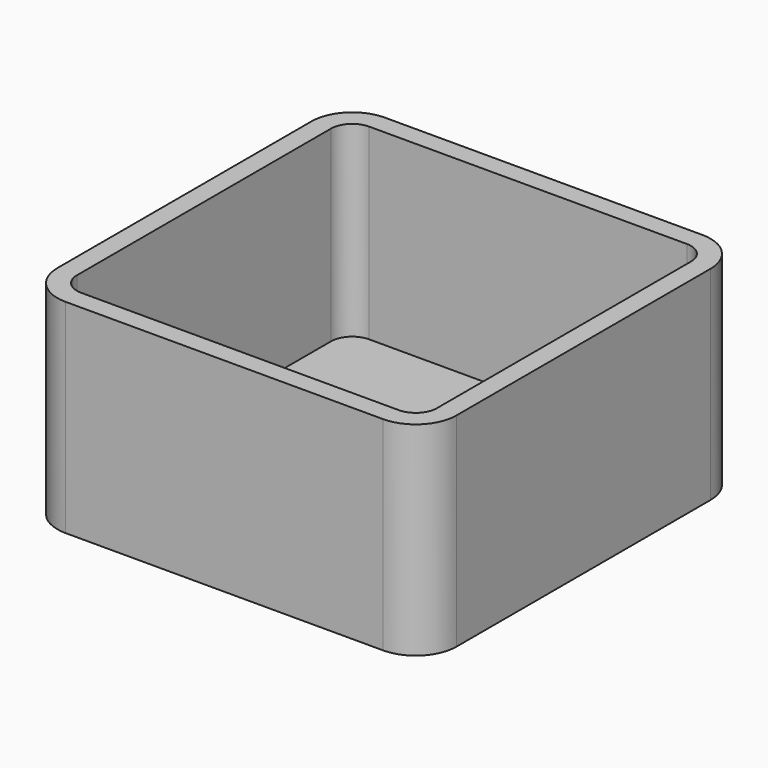
from build123d import *

# Parameters (mm, degrees)
F1_DEPTH = 25
F2_DEPTH = 2


with BuildPart() as f1:
    # F0 (on Top) → F1 (new body)
    with BuildSketch(Plane.XY):
        with BuildLine():
            ThreePointArc((-19.5, 24.5), (-23.035534, 23.035534), (-24.5, 19.5))
            Line((-24.5, 19.5), (-24.5, -19.5))
            ThreePointArc((-24.5, -19.5), (-23.035534, -23.035534), (-19.5, -24.5))
            Line((-19.5, -24.5), (19.5, -24.5))
            ThreePointArc((19.5, -24.5), (23.035534, -23.035534), (24.5, -19.5))
            Line((24.5, -19.5), (24.5, 19.5))
            ThreePointArc((24.5, 19.5), (23.035534, 23.035534), (19.5, 24.5))
            Line((19.5, 24.5), (-19.5, 24.5))
        make_face()
        with BuildLine():
            Line((-22.1, -19.5), (-22.1, 19.5))
            ThreePointArc((-22.1, 19.5), (-21.338478, 21.338478), (-19.5, 22.1))
            Line((-19.5, 22.1), (19.5, 22.1))
            ThreePointArc((19.5, 22.1), (21.338478, 21.338478), (22.1, 19.5))
            Line((22.1, 19.5), (22.1, -19.5))
            ThreePointArc((22.1, -19.5), (21.338478, -21.338478), (19.5, -22.1))
            Line((19.5, -22.1), (-19.5, -22.1))
            ThreePointArc((-19.5, -22.1), (-21.338478, -21.338478), (-22.1, -19.5))
        make_face(mode=Mode.SUBTRACT)
    extrude(amount=F1_DEPTH)

    # F0 (on Top) → F2 (join)
    with BuildSketch(Plane.XY):
        with BuildLine():
            ThreePointArc((-19.5, 22.1), (-21.338478, 21.338478), (-22.1, 19.5))
            Line((-22.1, 19.5), (-22.1, -19.5))
            ThreePointArc((-22.1, -19.5), (-21.338478, -21.338478), (-19.5, -22.1))
            Line((-19.5, -22.1), (19.5, -22.1))
            ThreePointArc((19.5, -22.1), (21.338478, -21.338478), (22.1, -19.5))
            Line((22.1, -19.5), (22.1, 19.5))
            ThreePointArc((22.1, 19.5), (21.338478, 21.338478), (19.5, 22.1))
            Line((19.5, 22.1), (-19.5, 22.1))
        make_face()
    extrude(amount=F2_DEPTH)


solid = f1.part
